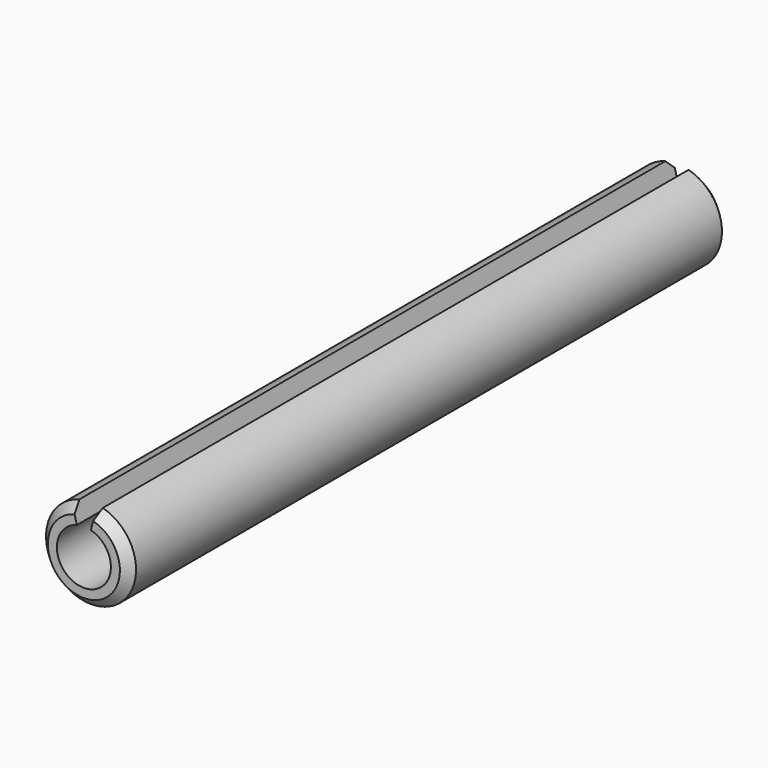
from build123d import *

# Parameters (mm, degrees)
F0_R     = 1.5
F1_DEPTH = 25
F2_T     = -0.6
F3_SIZE  = 0.3
F4_SIZE  = 0.3
F6_DEPTH = 25.001


with BuildPart() as f1:
    # F0 (on Front) → F1 (new body)
    with BuildSketch(Plane.XZ):
        Circle(F0_R)
    extrude(amount=F1_DEPTH)

    # F2
    f2_openings = [f1.faces().sort_by_distance(p)[0] for p in [
        (0, -25, 0),
        (0, 0, 0),
    ]]
    offset(amount=F2_T, openings=f2_openings)

    # F3
    f3_edges = [f1.edges().sort_by_distance(p)[0] for p in [
        (-1.5, -25, 0),
    ]]
    chamfer(f3_edges, length=F3_SIZE)

    # F4
    f4_edges = [f1.edges().sort_by_distance(p)[0] for p in [
        (-1.5, 0, 0),
    ]]
    chamfer(f4_edges, length=F4_SIZE)

    # F5 (on face) → F6 (cut, through all)
    with BuildSketch(Plane.XZ.offset(25)):
        Polygon((-0.489606, 1.827236), (0, 0), (0.489606, 1.827236), align=None)
    extrude(amount=-F6_DEPTH, mode=Mode.SUBTRACT)


solid = f1.part
